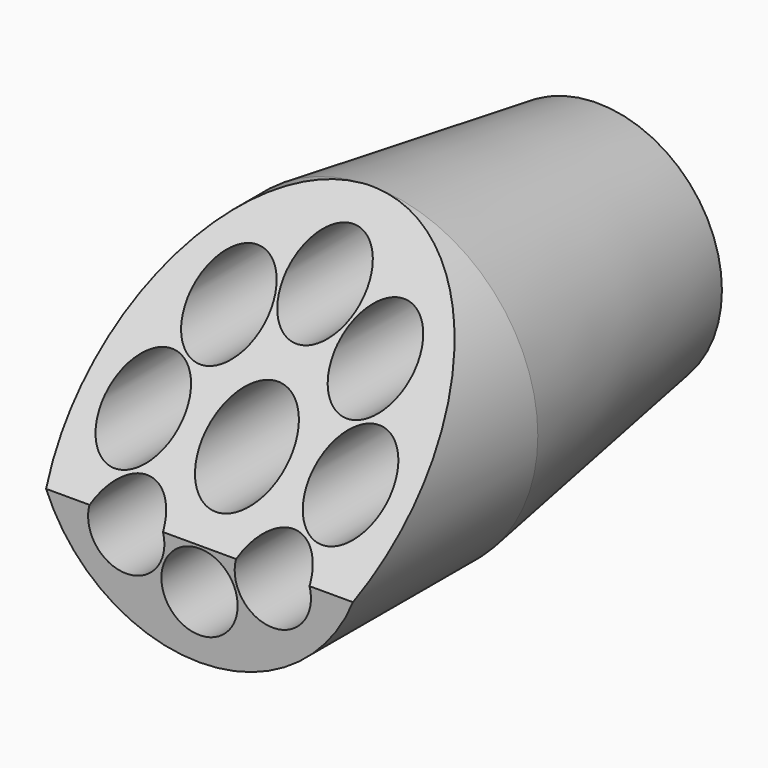
from build123d import *

# Parameters (mm, degrees)
F0_R      = 12.7
F1_DEPTH  = 38.1
F3_D      = 11.90752
F3_DEPTH  = 15.4214285714
F3_TIP    = 3.5773799191
F5_D      = 6.35
F7_D      = 5.842
F7_DEPTH  = 25.4
F7_TIP    = 1.7551138682
F11_SIZE2 = 3.175
F11_SIZE  = 21.59
F13_DEPTH = 12.7


with BuildPart() as f1:
    # F0 (on Front) → F1 (new body)
    with BuildSketch(Plane.XZ):
        Circle(F0_R)
    extrude(amount=F1_DEPTH)

    # F3
    with Locations(Plane(origin=(0, 0, 0), x_dir=(-1, 0, 0), z_dir=(0, 1, 0))):
        with Locations((0, 0)):
            Hole(F3_D / 2, depth=F3_DEPTH)
            with Locations((0, 0, -(F3_DEPTH + F3_TIP / 2))):  # 118° drill point
                Cone(0, F3_D / 2, F3_TIP, mode=Mode.SUBTRACT)

    # F5 (through all)
    with Locations(Plane.XZ.offset(38.1)):
        with Locations((0, 0)):
            Hole(F5_D / 2)

    # F7
    with Locations(Plane.XZ.offset(38.1)):
        with Locations((0, 7.9375), (-5.6126600757, 5.6126600757), (-7.9375, 0), (-5.6126600757, -5.6126600757), (0, -7.9375), (5.6126600757, -5.6126600757), (7.9375, 0), (5.6126600757, 5.6126600757)):
            Hole(F7_D / 2, depth=F7_DEPTH)
            with Locations((0, 0, -(F7_DEPTH + F7_TIP / 2))):  # 118° drill point
                Cone(0, F7_D / 2, F7_TIP, mode=Mode.SUBTRACT)

    # F11
    f11_edges = [f1.edges().sort_by_distance(p)[0] for p in [
        (-12.7, 0, 0),
    ]]
    f11_side = f1.faces().sort_by_distance((-12.7, -19.05, 0))[0]
    chamfer(f11_edges, length=F11_SIZE, length2=F11_SIZE2, reference=f11_side)

    # F12 (on Right) → F13 (cut, symmetric)
    with BuildSketch(Plane.YZ):
        Polygon((-43.4335693717, -3.8883644156), (-38.1641536951, -4.8853410408), (-19.5609088987, 14.8634454235), (-39.1272343695, 17.5419766456), align=None)
    extrude(amount=F13_DEPTH, both=True, mode=Mode.SUBTRACT)


solid = f1.part
